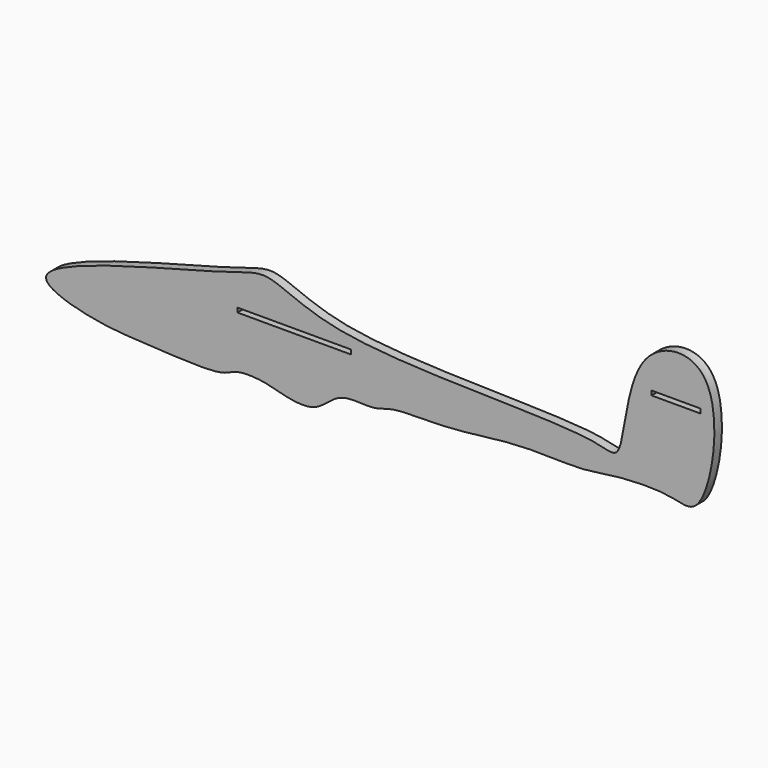
from build123d import *

# Parameters (mm, degrees)
F0_W     = 38.1
F0_H     = 1.4732
F0_W_2   = 16.51
F1_DEPTH = 3.175


with BuildPart() as f1:
    # F0 (on Front) → F1 (new body)
    with BuildSketch(Plane.XZ):
        with BuildLine():
            add(Edge.make_bspline(
                [(-95.8789940291, -17.7989335942), (-88.2083005241, -19.4591799862), (-76.7308278889, -19.7485540794), (-50.3210223847, -21.6541268348), (-46.1034789861, -17.6838253002), (-36.0182455959, -18.0322733491), (-29.2953794347, -20.4268464079), (-18.2115889807, -21.9451048679), (-11.3628619059, -12.6426069021), (0.4103184182, -14.9925791357), (7.0475897195, -11.4244245279), (25.9748070987, -12.5797742757), (48.8415920377, -8.3687594962), (70.0724917401, -10.0552821163), (80.6993824359, -7.5777373183), (100.148846367, -6.7193144488), (112.5953280133, -12.6258405921), (120.5382687393, 38.9379284037), (84.9429866843, 35.3628691851), (85.247096697, -4.7341676424), (72.6682658291, 3.3573692171), (-11.7436279037, -0.378784143), (-34.9257878398, 15.5874269114), (-48.0051793916, 9.0759636035), (-126.6456473349, -8.8375723515), (-102.3874116505, -16.3902504203), (-95.8789940291, -17.7989335942)],
                knots=[0, 0, 0, 0, 0.0443971423, 0.0919332384, 0.114341424, 0.1433554585, 0.1702469211, 0.200653266, 0.2314675563, 0.2627490222, 0.2886367055, 0.3295476135, 0.3775578923, 0.42111886, 0.4536762676, 0.4958294502, 0.5249764227, 0.5846920191, 0.6276119212, 0.6816558997, 0.7095243472, 0.7984701655, 0.847267618, 0.8863468788, 0.9623299845, 1, 1, 1, 1], degree=3))
        make_face()
        with Locations((-26.1339042336, 0)):
            Rectangle(F0_W, F0_H, mode=Mode.SUBTRACT)
        with Locations((102.1334256577, 20.7136852923)):
            Rectangle(F0_W_2, F0_H, mode=Mode.SUBTRACT)
    extrude(amount=F1_DEPTH)


solid = f1.part
